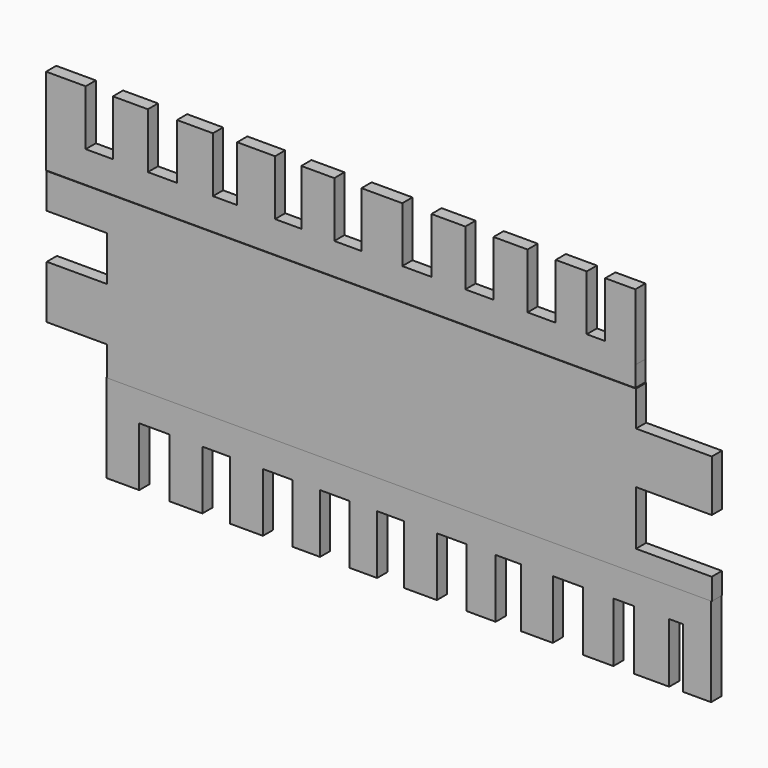
from build123d import *

# Parameters (mm, degrees)
F0_W     = 147.301361
F0_H     = 5.08
F0_W_2   = 151.177182
F1_DEPTH = 3.175
F3_DEPTH = 3.175


with BuildPart() as f1:
    # F0 (on Front) → F1 (new body)
    with BuildSketch(Plane.XZ):
        Polygon((-69.832792, 48.37012), (-69.832792, 31.733985), (77.468569, 31.733985), (77.468569, 48.37012), (69.936005, 48.37012), (69.936005, 34.535155), (65.324081, 34.535155), (65.324081, 48.37012), (57.556612, 48.37012), (57.556612, 34.535155), (50.517352, 34.535155), (50.517352, 48.37012), (42.021689, 48.37012), (42.021689, 34.535155), (34.982426, 34.535155), (34.982426, 48.37012), (26.486765, 48.37012), (26.486765, 34.535155), (19.204767, 34.535155), (19.204767, 48.37012), (9.009972, 48.37012), (9.009972, 34.535155), (2.213441, 34.535155), (2.213441, 48.37012), (-6.039487, 48.37012), (-6.039487, 34.535155), (-12.593285, 34.535155), (-12.593285, 48.37012), (-22.059879, 48.37012), (-22.059879, 34.535155), (-28.128209, 34.535155), (-28.128209, 48.37012), (-37.10934, 48.37012), (-37.10934, 34.535155), (-44.391333, 34.535155), (-44.391333, 48.37012), (-53.129731, 48.37012), (-53.129731, 34.535155), (-59.926259, 34.535155), (-59.926259, 48.37012), align=None)
        with Locations((3.817889, 29.193985)):
            Rectangle(F0_W, F0_H)
        with Locations((20.821245, -16.526015)):
            Rectangle(F0_W_2, F0_H)
        Polygon((96.409836, -19.066015), (-54.767346, -19.066015), (-54.767346, -36.155596), (-46.548847, -36.155596), (-46.548847, -21.442869), (-38.979172, -21.442869), (-38.979172, -36.155596), (-30.760671, -36.155596), (-30.760671, -21.442869), (-23.839827, -21.442869), (-23.839827, -36.155596), (-15.621325, -36.155596), (-15.621325, -21.442869), (-8.267927, -21.442869), (-8.267927, -36.155596), (-1.347084, -36.155596), (-1.347084, -21.442869), (6.006312, -21.442869), (6.006312, -36.155596), (12.927156, -36.155596), (12.927156, -21.442869), (19.631724, -21.442869), (19.631724, -36.155596), (27.850224, -36.155596), (27.850224, -21.442869), (35.203622, -21.442869), (35.203622, -36.155596), (42.557018, -36.155596), (42.557018, -21.442869), (48.829032, -21.442869), (48.829032, -36.155596), (56.83126, -36.155596), (56.83126, -21.442869), (64.400932, -21.442869), (64.400932, -36.335392), (71.970609, -36.335392), (71.970609, -21.442869), (77.126344, -21.442869), (77.126344, -36.335392), (85.943542, -36.335392), (85.943542, -21.442869), (89.344725, -21.442869), (89.344725, -36.335392), (96.409836, -36.335392), align=None)
    extrude(amount=F1_DEPTH)


with BuildPart() as f3:
    # F2 (on Front) → F3 (new body)
    with BuildSketch(Plane.XZ):
        Polygon((77.633658, 26.562235), (-69.667703, 26.562235), (-69.667703, 17.78922), (-54.580103, 17.78922), (-54.580103, 6.586777), (-69.667703, 6.586777), (-69.667703, -6.698481), (-54.580103, -6.698481), (-54.602256, -14.077765), (96.574925, -14.077765), (96.574925, -8.673837), (77.633658, -8.673837), (77.633658, 4.900949), (96.574925, 4.900949), (96.574925, 17.78922), (77.633658, 17.78922), align=None)
    extrude(amount=F3_DEPTH)


solid = Compound([f1.part, f3.part])
